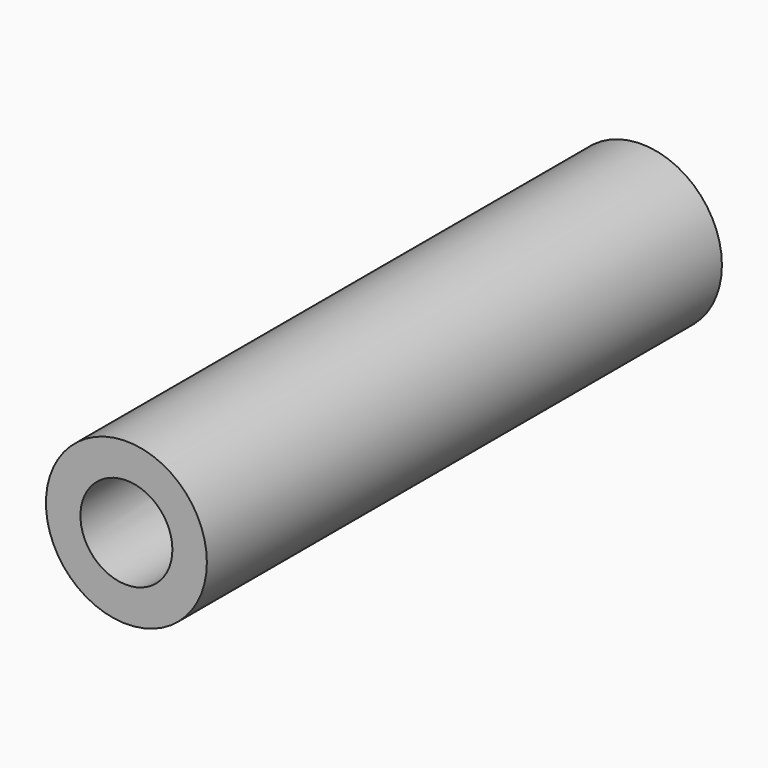
from build123d import *

# Parameters (mm, degrees)
F0_R     = 11.1125
F1_DEPTH = 44.45
F2_R     = 6.35
F3_DEPTH = 88.9
F4_R     = 2.413
F5_DEPTH = 25.4
F6_R     = 2.413
F7_DEPTH = 25.4


with BuildPart() as f1:
    # F0 (on Front) → F1 (new body, symmetric)
    with BuildSketch(Plane.XZ):
        Circle(F0_R)
    extrude(amount=F1_DEPTH, both=True)

    # F2 (on face) → F3 (cut)
    with BuildSketch(Plane.XZ.offset(44.45)):
        Circle(F2_R)
    extrude(amount=-F3_DEPTH, mode=Mode.SUBTRACT)

    # F4 (on Right) → F5 (cut)
    with BuildSketch(Plane.YZ):
        with Locations((-29.337, 0)):
            Circle(F4_R)
    extrude(amount=-F5_DEPTH, mode=Mode.SUBTRACT)

    # F6 (on Right) → F7 (cut)
    with BuildSketch(Plane.YZ):
        with Locations((34.163, 0)):
            Circle(F6_R)
    extrude(amount=-F7_DEPTH, mode=Mode.SUBTRACT)


solid = f1.part
